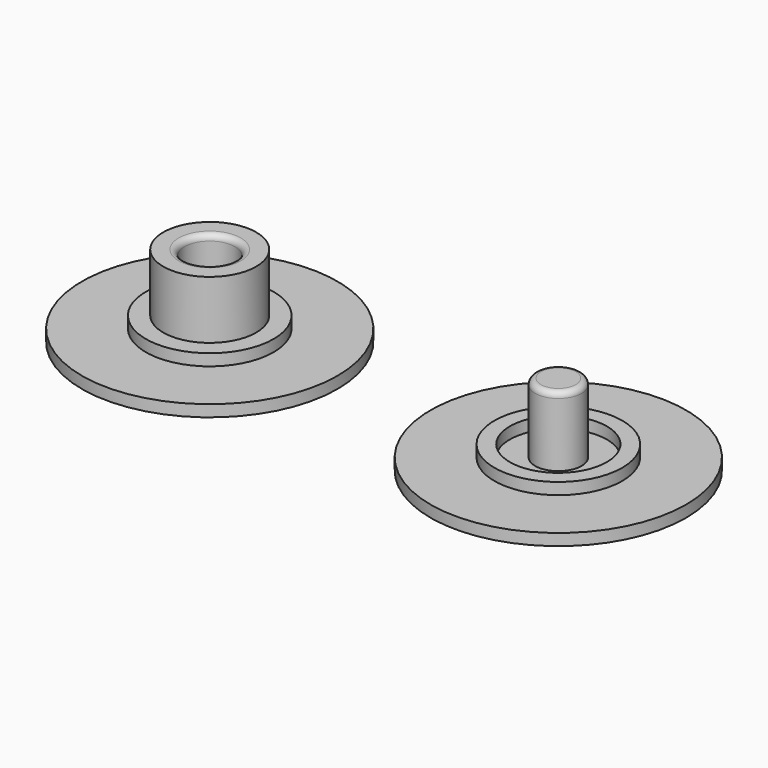
from build123d import *

# Parameters (mm, degrees)
F0_R     = 11
F0_R_2   = 5.5
F1_DEPTH = 1
F0_R_3   = 4
F0_R_4   = 4.175
F2_DEPTH = 2
F0_R_5   = 2.175
F0_R_6   = 2
F3_DEPTH = 7
F4_DEPTH = 1
F5_R     = 0.5


with BuildPart() as f1:
    # F0 (on Top) → F1 (new body)
    with BuildSketch(Plane.XY):
        Circle(F0_R)
        Circle(F0_R_2, mode=Mode.SUBTRACT)
        with Locations((30, 0)):
            Circle(F0_R)
        with Locations((30, 0)):
            Circle(F0_R_2, mode=Mode.SUBTRACT)
    extrude(amount=F1_DEPTH)


with BuildPart() as f2:
    # F0 (on Top) → F2 (new body)
    with BuildSketch(Plane.XY):
        Circle(F0_R_2)
        Circle(F0_R_3, mode=Mode.SUBTRACT)
        with Locations((30, 0)):
            Circle(F0_R_2)
        with Locations((30, 0)):
            Circle(F0_R_4, mode=Mode.SUBTRACT)
    extrude(amount=F2_DEPTH)

    # F0 (on Top) → F3 (join)
    with BuildSketch(Plane.XY):
        Circle(F0_R_3)
        Circle(F0_R_5, mode=Mode.SUBTRACT)
        with Locations((30, 0)):
            Circle(F0_R_6)
    extrude(amount=F3_DEPTH)

    # F5
    f5_edges = [f2.edges().sort_by_distance(p)[0] for p in [
        (28, 0, 7),
        (-2.175, 0, 7),
    ]]
    fillet(f5_edges, radius=F5_R)


with BuildPart() as f4:
    # F0 (on Top) → F4 (new body)
    with BuildSketch(Plane.XY):
        with Locations((30, 0)):
            Circle(F0_R_4)
        with Locations((30, 0)):
            Circle(F0_R_6, mode=Mode.SUBTRACT)
        Circle(F0_R_5)
    extrude(amount=F4_DEPTH)


solid = Compound([f1.part, f2.part, f4.part])
